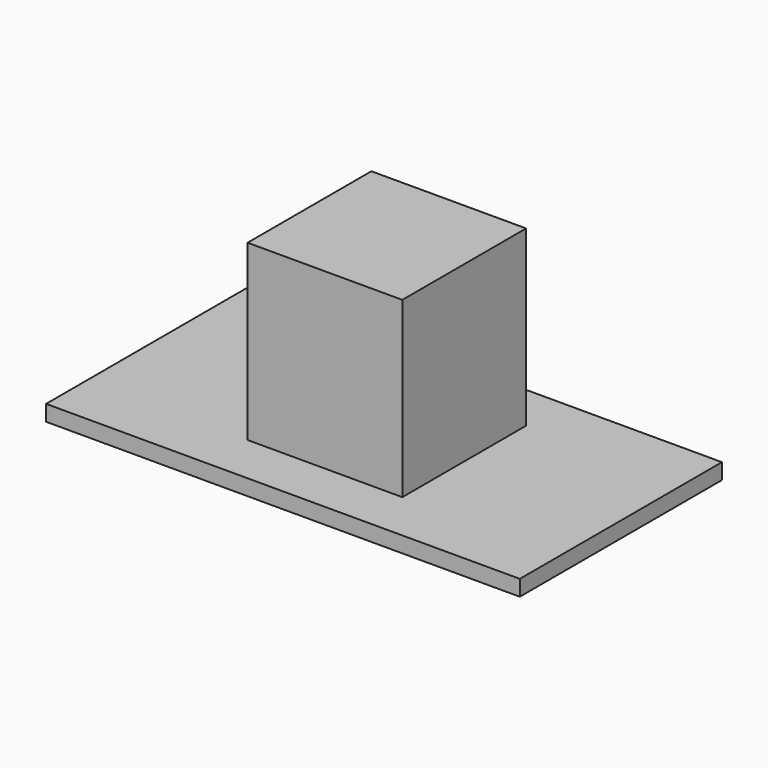
from build123d import *

# Parameters (mm, degrees)
SKETCH001_W  = 2.6
SKETCH001_H  = 2.6
PAD_DEPTH    = 3.5
SKETCH_W     = 15
SKETCH_H     = 8
PAD001_DEPTH = 0.5
SKETCH002_W  = 4.9
SKETCH002_H  = 4.9
PAD002_DEPTH = 6


with BuildPart() as pad:
    # Sketch001 → Pad (new body)
    with BuildSketch(Plane.XY):
        with Locations((7.5, 4)):
            Rectangle(SKETCH001_W, SKETCH001_H)
    extrude(amount=PAD_DEPTH)


with BuildPart() as pad001:
    # Sketch → Pad001 (new body)
    with BuildSketch(Plane.XY):
        with Locations((7.5, 4)):
            Rectangle(SKETCH_W, SKETCH_H)
    extrude(amount=PAD001_DEPTH)


with BuildPart() as cut:
    # Sketch002 → Pad002 (new body)
    with BuildSketch(Plane.XY):
        with Locations((7.55, 4.05)):
            Rectangle(SKETCH002_W, SKETCH002_H)
    extrude(amount=PAD002_DEPTH)

    # Fusion: union Pad001
    add(pad001.part)

    # Cut: cut Pad
    add(pad.part, mode=Mode.SUBTRACT)


solid = cut.part
